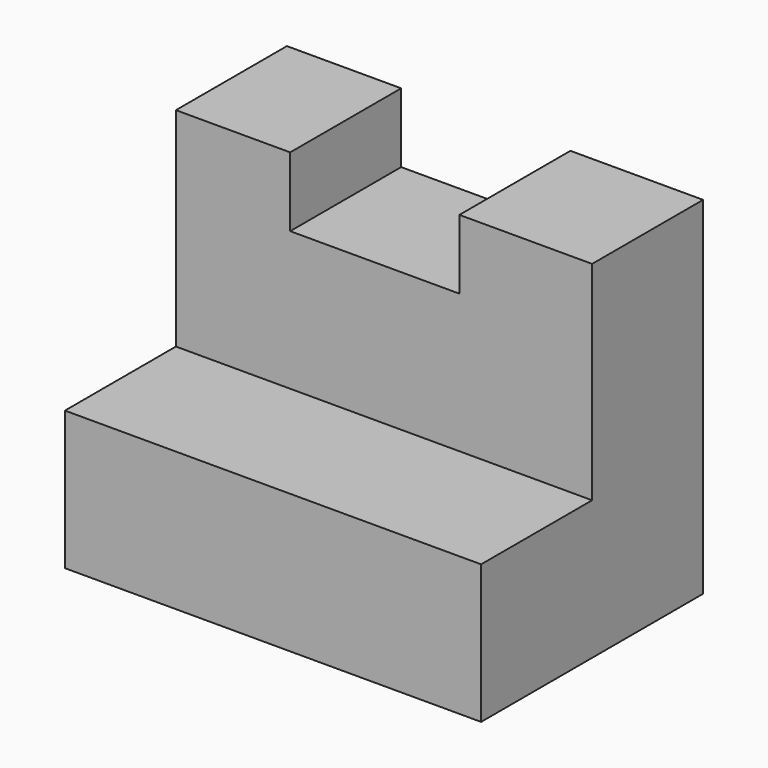
from build123d import *

# Parameters (mm, degrees)
F1_DEPTH = 25.4
F2_DEPTH = 12.7
F3_W     = 15.489865
F3_H     = 12.7
F4_DEPTH = 6.35


with BuildPart() as f1:
    # F0 (on Right) → F1 (new body)
    with BuildSketch(Plane.YZ):
        Polygon((-25.4, 0), (0, 0), (0, 31.75), (-12.7, 31.75), (-12.7, 12.7), (-25.4, 12.7), align=None)
    extrude(amount=F1_DEPTH)

    # F1_face (on face) → F2 (join)
    with BuildSketch(Plane(origin=(25.4, -9.978571, 13.153571), x_dir=(0, 1, 0), z_dir=(1, 0, 0))):
        Polygon((-15.421429, -13.153571), (9.978571, -13.153571), (9.978571, 18.596429), (-2.721429, 18.596429), (-2.721429, -0.453571), (-15.421429, -0.453571), align=None)
    extrude(amount=F2_DEPTH)

    # F3 (on face) → F4 (cut)
    with BuildSketch(Plane.XY.offset(31.75)):
        with Locations((18.207432, -6.35)):
            Rectangle(F3_W, F3_H)
    extrude(amount=-F4_DEPTH, mode=Mode.SUBTRACT)


solid = f1.part
